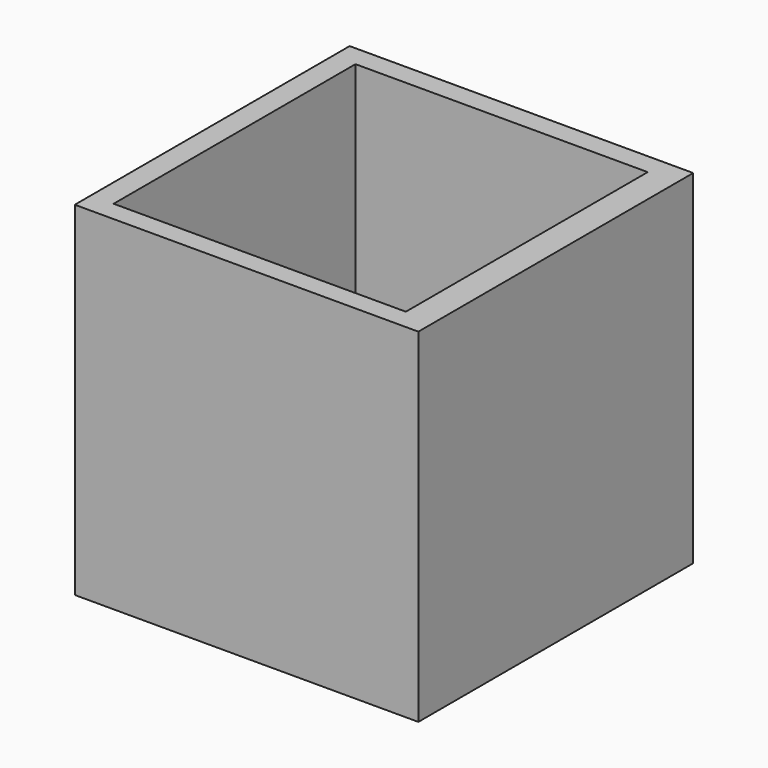
from build123d import *

# Parameters (mm, degrees)
F0_W     = 50.8
F0_H     = 50.8
F1_DEPTH = 50.8
F2_W     = 43.208381
F2_H     = 44.698323
F3_DEPTH = 44.45
F4_R     = 10.414
F5_DEPTH = 50.801


with BuildPart() as f1:
    # F0 (on Top) → F1 (new body)
    with BuildSketch(Plane.XY):
        with Locations((0.893969, 10.03982)):
            Rectangle(F0_W, F0_H)
    extrude(amount=F1_DEPTH)

    # F2 (on face) → F3 (cut)
    with BuildSketch(Plane.XY.offset(50.8)):
        with Locations((0.446981, 9.982625)):
            Rectangle(F2_W, F2_H)
    extrude(amount=-F3_DEPTH, mode=Mode.SUBTRACT)

    # F4 (on face) → F5 (cut, through all)
    with BuildSketch(Plane(origin=(0, 0, 0), x_dir=(1, 0, 0), z_dir=(0, 0, -1))):
        with Locations((0, -10.386877)):
            Circle(F4_R)
    extrude(amount=-F5_DEPTH, mode=Mode.SUBTRACT)


solid = f1.part
